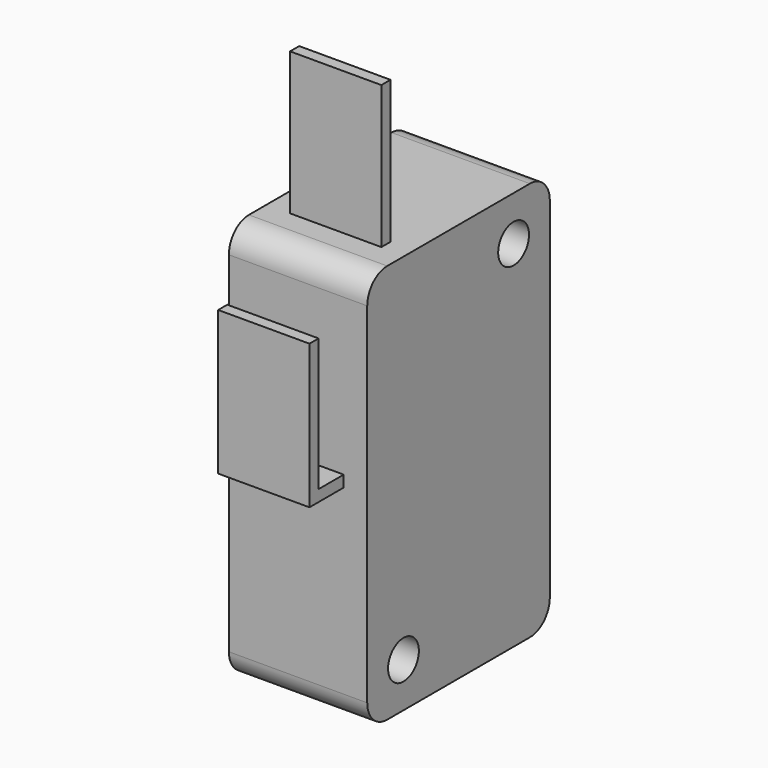
from build123d import *

# Parameters (mm, degrees)
SKETCH056_R             = 1.35
PAD056_DEPTH            = 9.7
SKETCH057_W             = 2.9
SKETCH057_H             = 4.1
PAD057_DEPTH            = 3
SKETCH058_W             = 0.8
SKETCH058_H             = 6.4
PAD058_DEPTH            = 10
SKETCH059_W             = 0.8
SKETCH059_H             = 6.4
PAD059_DEPTH            = 3
SKETCH060_W             = 0.8
SKETCH060_H             = 6.4
PAD060_DEPTH            = 9.3
FILLET008_R             = 1.2
BODY012_PLACEMENT_ANGLE = 90


with BuildPart() as part:
    # Sketch056 → Pad056 (new body)
    with BuildSketch(Plane.XY):
        with BuildLine():
            ThreePointArc((-12.25, 8), (-13.487437, 7.487437), (-14, 6.25))
            Line((-14, -6.25), (-14, 6.25))
            ThreePointArc((-14, -6.25), (-13.487437, -7.487437), (-12.25, -8))
            Line((12.25, -8), (-12.25, -8))
            ThreePointArc((12.25, -8), (13.487437, -7.487437), (14, -6.25))
            Line((14, 6.25), (14, -6.25))
            ThreePointArc((14, 6.25), (13.487437, 7.487437), (12.25, 8))
            Line((-12.25, 8), (12.25, 8))
        make_face()
        with Locations((10.877931, -4.825)):
            Circle(SKETCH056_R, mode=Mode.SUBTRACT)
        with Locations((-10.877931, 4.825)):
            Circle(SKETCH056_R, mode=Mode.SUBTRACT)
    extrude(amount=PAD056_DEPTH)

    # Sketch057 (on Face8 of Pad056) → Pad057 (join)
    with BuildSketch(Plane(origin=(0, 8, 0), x_dir=(-1, 0, 0), z_dir=(0, 1, 0))):
        with Locations((-9.45, 4.85)):
            Rectangle(SKETCH057_W, SKETCH057_H)
    extrude(amount=PAD057_DEPTH)

    # Sketch058 (on Face3 of Pad057) → Pad058 (join)
    with BuildSketch(Plane(origin=(-14, 0, 0), x_dir=(0, -1, 0), z_dir=(-1, 0, 0))):
        with Locations((4.3, 4.85)):
            Rectangle(SKETCH058_W, SKETCH058_H)
    extrude(amount=PAD058_DEPTH)

    # Sketch059 (on Face16 of Pad058) → Pad059 (join)
    with BuildSketch(Plane.XZ.offset(8)):
        with Locations((-0.9, 4.85)):
            Rectangle(SKETCH059_W, SKETCH059_H)
    extrude(amount=PAD059_DEPTH)

    # Sketch060 (on Face23 of Pad059) → Pad060 (join)
    with BuildSketch(Plane(origin=(-1.3, 0, 0), x_dir=(0, -1, 0), z_dir=(-1, 0, 0))):
        with Locations((10.6, 4.85)):
            Rectangle(SKETCH060_W, SKETCH060_H)
    extrude(amount=PAD060_DEPTH)

    # Fillet008
    fillet008_edges = [part.edges().sort_by_distance(p)[0] for p in [
        (10.9, 11, 4.85),
        (8, 11, 4.85),
    ]]
    fillet(fillet008_edges, radius=FILLET008_R)


with BuildPart() as part_1:
    # Body012 placement: moved
    add(part.part.moved(Location((216.3, 0, -97))).rotate(Axis((216.3, 0, -97), (0, 1, 0)), BODY012_PLACEMENT_ANGLE))


solid = part_1.part
